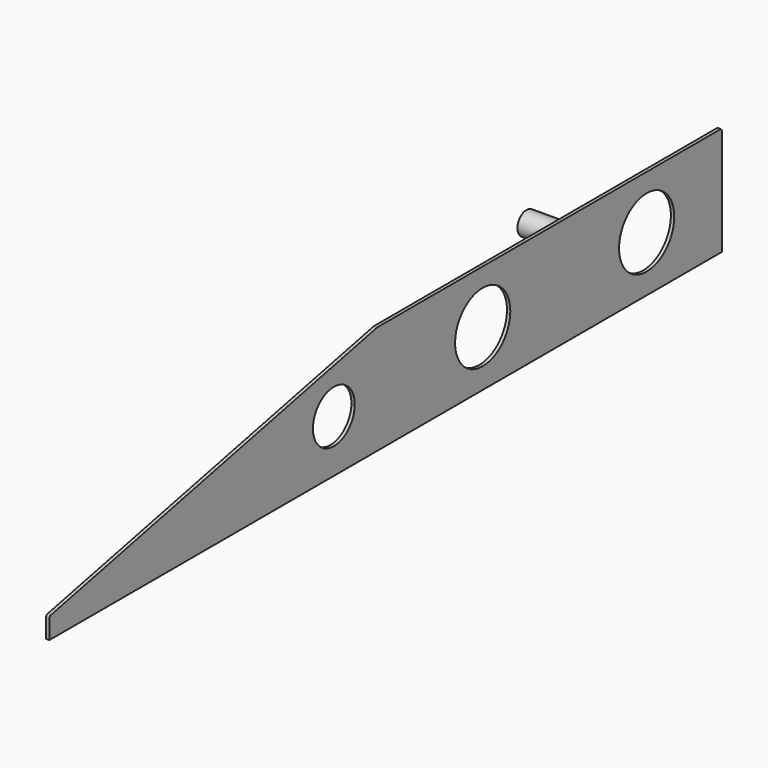
from build123d import *

# Parameters (mm, degrees)
F0_R          = 12.5
F0_R_2        = 5.5
F0_R_3        = 16.5
F1_DEPTH      = 1.6
F0_R_4        = 4.25
F2_DEPTH      = 19
F2_DEPTH_BACK = 1.6
F3_R          = 4
F4_DEPTH      = 18
F5_R          = 4.25
F6_DEPTH      = 18


with BuildPart() as f1:
    # F0 (on Right) → F1 (new body)
    with BuildSketch(Plane.YZ):
        with BuildLine():
            Line((-402, 0), (0, 0))
            Line((0, 0), (0, 51))
            ThreePointArc((0, 51), (-0.2928932188, 51.7071067812), (-1, 52))
            Line((-1, 52), (-206, 52))
            Line((-206, 52), (-401.2095290887, 10.1693866238))
            ThreePointArc((-401.2095290887, 10.1693866238), (-401.777666088, 9.8202617548), (-402, 9.1915842098))
            Line((-402, 9.1915842098), (-402, 0))
        make_face()
        with Locations((-231.9873586528, 25)):
            Circle(F0_R, mode=Mode.SUBTRACT)
        with Locations((-192.5874, 18)):
            Circle(F0_R_2, mode=Mode.SUBTRACT)
        with Locations((-143, 26.5)):
            Circle(F0_R_3, mode=Mode.SUBTRACT)
        with Locations((-45, 26.5)):
            Circle(F0_R_3, mode=Mode.SUBTRACT)
        with Locations((-91, 42.5)):
            Circle(F0_R_2, mode=Mode.SUBTRACT)
    extrude(amount=F1_DEPTH)

    # F0 (on Right) → F2 (join, two sides)
    with BuildSketch(Plane.YZ) as f2_sk:
        with Locations((-91, 42.5)):
            Circle(F0_R_2)
        with Locations((-91, 42.5)):
            Circle(F0_R_4, mode=Mode.SUBTRACT)
        with Locations((-192.5874, 18)):
            Circle(F0_R_2)
        with Locations((-192.5874, 18)):
            Circle(F0_R_4, mode=Mode.SUBTRACT)
        with Locations((-91, 42.5)):
            Circle(F0_R_4)
        with Locations((-192.5874, 18)):
            Circle(F0_R_4)
    extrude(amount=-F2_DEPTH)
    extrude(f2_sk.sketch, amount=F2_DEPTH_BACK)

    # F3 (on face) → F4 (cut)
    with BuildSketch(Plane(origin=(-19, 0, 0), x_dir=(0, -1, 0), z_dir=(-1, 0, 0))):
        with Locations((91, 42.5)):
            Circle(F3_R)
    extrude(amount=-F4_DEPTH, mode=Mode.SUBTRACT)

    # F5 (on face) → F6 (cut)
    with BuildSketch(Plane(origin=(-19, 0, 0), x_dir=(0, -1, 0), z_dir=(-1, 0, 0))):
        with Locations((192.5874, 18)):
            Circle(F5_R)
    extrude(amount=-F6_DEPTH, mode=Mode.SUBTRACT)


solid = f1.part
